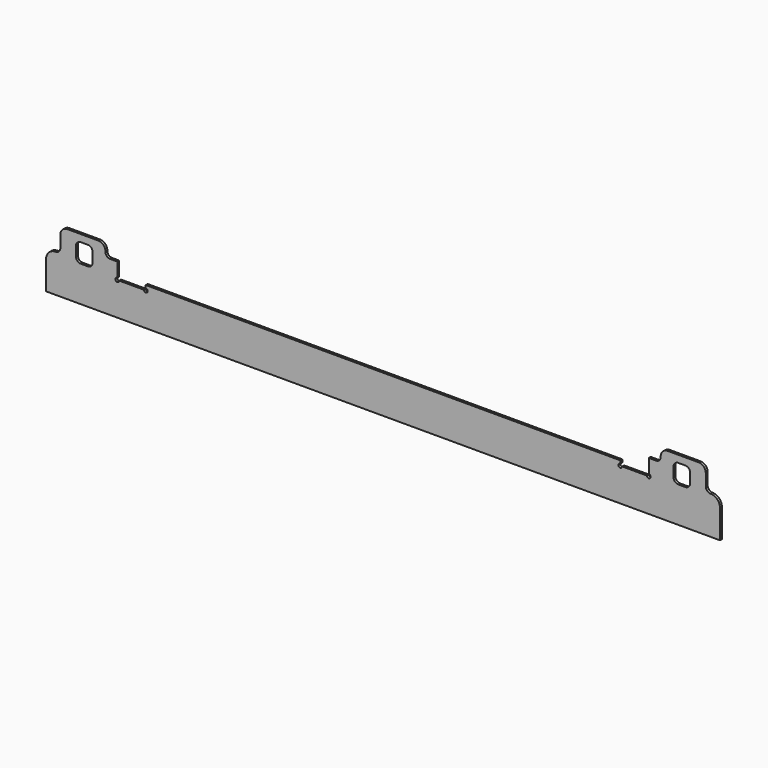
from build123d import *

# Parameters (mm, degrees)
F1_DEPTH = 5


with BuildPart() as f1:
    # F0 (on Front) → F1 (new body)
    with BuildSketch(Plane.XZ):
        with BuildLine():
            Line((-710, 20), (-710, -40))
            Line((-710, -40), (710, -40))
            Line((710, -40), (710, 20))
            ThreePointArc((710, 20), (704.142136, 34.142136), (690, 40))
            ThreePointArc((690, 40), (682.928932, 42.928932), (680, 50))
            Line((680, 50), (680, 75))
            ThreePointArc((680, 75), (675.606602, 85.606602), (665, 90))
            Line((665, 90), (600, 90))
            ThreePointArc((600, 90), (589.393398, 85.606602), (585, 75))
            Line((585, 75), (585, 74))
            ThreePointArc((585, 74), (582.071068, 66.928932), (575, 64))
            Line((575, 64), (560, 64))
            Line((560, 64), (560, 34))
            ThreePointArc((560, 34), (562.828427, 27.171573), (556, 30))
            Line((556, 30), (504, 30))
            ThreePointArc((504, 30), (497.171573, 27.171573), (500, 34))
            Line((500, 34), (500, 40))
            Line((500, 40), (-500, 40))
            Line((-500, 40), (-500, 34))
            ThreePointArc((-500, 34), (-497.171573, 27.171573), (-504, 30))
            Line((-504, 30), (-556, 30))
            ThreePointArc((-556, 30), (-562.828427, 27.171573), (-560, 34))
            Line((-560, 34), (-560, 64))
            Line((-560, 64), (-575, 64))
            ThreePointArc((-575, 64), (-582.071068, 66.928932), (-585, 74))
            Line((-585, 74), (-585, 75))
            ThreePointArc((-585, 75), (-589.393398, 85.606602), (-600, 90))
            Line((-600, 90), (-665, 90))
            ThreePointArc((-665, 90), (-675.606602, 85.606602), (-680, 75))
            Line((-680, 75), (-680, 50))
            ThreePointArc((-680, 50), (-682.928932, 42.928932), (-690, 40))
            ThreePointArc((-690, 40), (-704.142136, 34.142136), (-710, 20))
        make_face()
        with BuildLine():
            ThreePointArc((-647, 65), (-644.071068, 72.071068), (-637, 75))
            Line((-637, 75), (-622, 75))
            ThreePointArc((-622, 75), (-614.928932, 72.071068), (-612, 65))
            Line((-612, 65), (-612, 45))
            ThreePointArc((-612, 45), (-614.928932, 37.928932), (-622, 35))
            Line((-622, 35), (-637, 35))
            ThreePointArc((-637, 35), (-644.071068, 37.928932), (-647, 45))
            Line((-647, 45), (-647, 65))
        make_face(mode=Mode.SUBTRACT)
        with BuildLine():
            Line((622, 75), (637, 75))
            ThreePointArc((637, 75), (644.071068, 72.071068), (647, 65))
            Line((647, 65), (647, 45))
            ThreePointArc((647, 45), (644.071068, 37.928932), (637, 35))
            Line((637, 35), (622, 35))
            ThreePointArc((622, 35), (614.928932, 37.928932), (612, 45))
            Line((612, 45), (612, 65))
            ThreePointArc((612, 65), (614.928932, 72.071068), (622, 75))
        make_face(mode=Mode.SUBTRACT)
    extrude(amount=F1_DEPTH)


solid = f1.part
